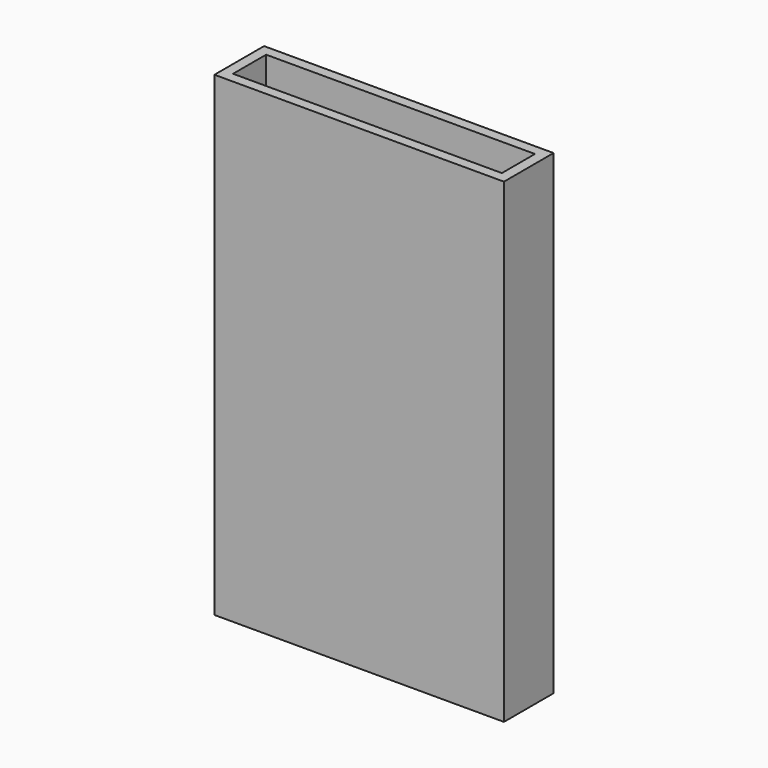
from build123d import *

# Parameters (mm, degrees)
F0_W        = 56
F0_H        = 12
F0_W_2      = 52
F0_H_2      = 8
F1_DEPTH    = 90
F1_FACE_W   = 56
F1_FACE_H   = 12
F1_FACE_W_2 = 52
F1_FACE_H_2 = 8
F2_DEPTH    = 2


with BuildPart() as f1:
    # F0 (on Top) → F1 (new body)
    with BuildSketch(Plane.XY):
        with Locations((-19.410297, 19.352412)):
            Rectangle(F0_W, F0_H)
        with Locations((-19.410297, 19.352412)):
            Rectangle(F0_W_2, F0_H_2, mode=Mode.SUBTRACT)
    extrude(amount=F1_DEPTH)

    # F1_face (on face) → F2 (join)
    with BuildSketch(Plane(origin=(-19.410297, 19.352412, 90), x_dir=(1, 0, 0), z_dir=(0, 0, 1))):
        Rectangle(F1_FACE_W, F1_FACE_H)
        Rectangle(F1_FACE_W_2, F1_FACE_H_2, mode=Mode.SUBTRACT)
    extrude(amount=F2_DEPTH)


solid = f1.part
